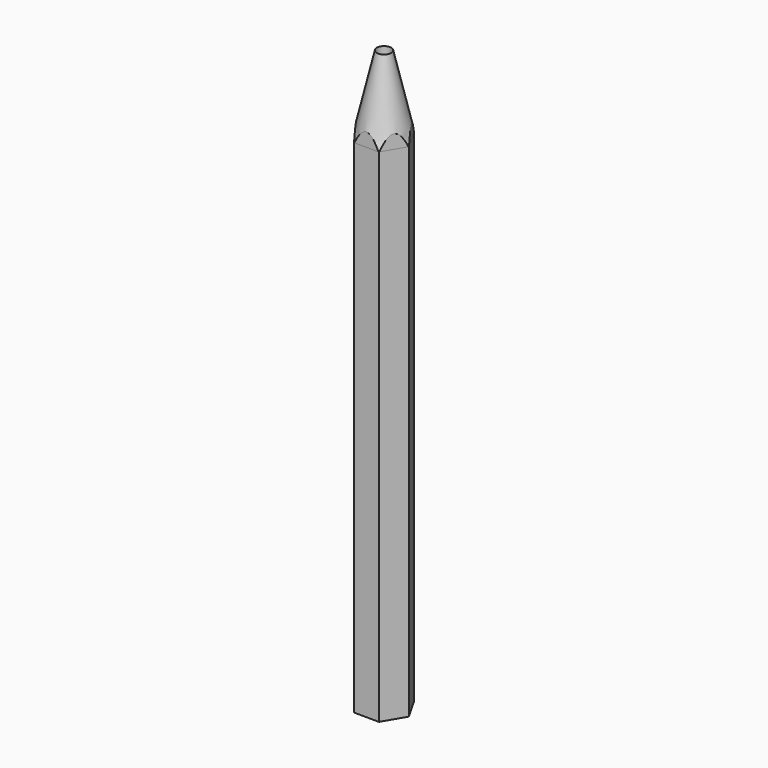
from build123d import *

# Parameters (mm, degrees)
F1_DEPTH = 70
F3_R     = 9.108661
F5_DEPTH = 85.001
F6_R     = 1.000895
F7_DEPTH = 85.001


with BuildPart() as f1:
    # F0 (on Top) → F1 (new body)
    with BuildSketch(Plane.XY):
        Polygon((-1.717262, 3.016132), (-3.47889, 0.016132), (-1.761628, -3.009482), (1.717262, -3.035097), (3.47889, -0.035097), (1.761628, 2.990518), align=None)
    extrude(amount=F1_DEPTH)

    # F2 (on Front) → F4 (revolve)
    with BuildSketch(Plane.XZ):
        Polygon((-3.47889, 70), (0, 70), (0, 85), align=None)
    revolve(axis=Axis((0, 0, 77.5), (0, 0, 1)))

    # F3 (on Top) → F5 (cut, through all)
    with BuildSketch(Plane.XY):
        with Locations((-4e-05, -0.009522)):
            Circle(F3_R)
        Polygon((-1.772364, -3.027722), (-3.50004, 0.016256), (-1.727715, 3.034456), (1.772285, 3.008678), (3.49996, -0.0353), (1.727636, -3.0535), align=None, mode=Mode.SUBTRACT)
    extrude(amount=F5_DEPTH, mode=Mode.SUBTRACT)

    # F6 (on Top) → F7 (cut, through all)
    with BuildSketch(Plane.XY):
        Circle(F6_R)
    extrude(amount=F7_DEPTH, mode=Mode.SUBTRACT)


solid = f1.part
